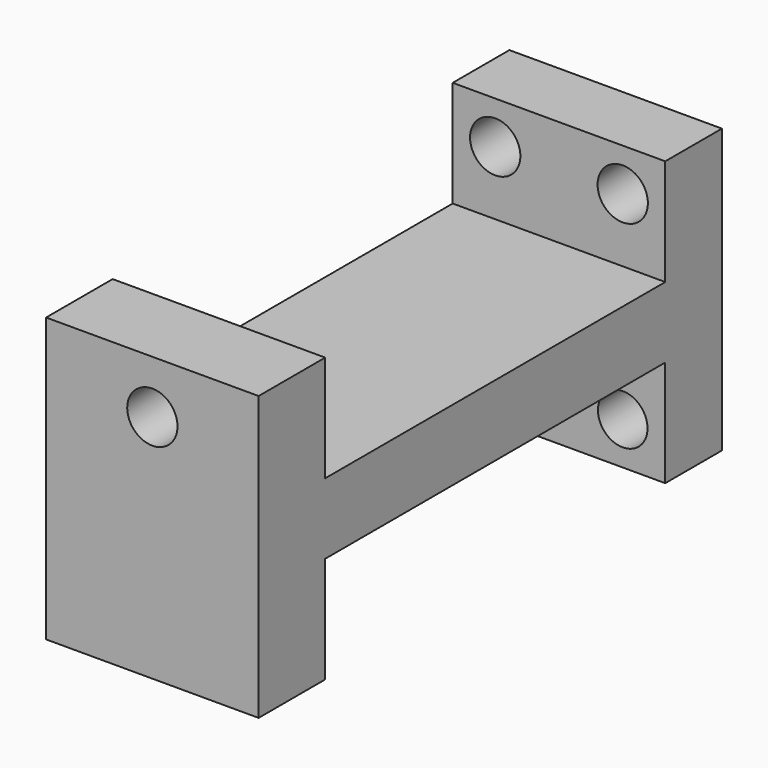
from build123d import *

# Parameters (mm, degrees)
F0_W     = 30
F0_H     = 5
F1_DEPTH = 15
F3_R     = 1.775
F4_DEPTH = 25
F2_R     = 1.775
F2_R_2   = 1.75
F5_DEPTH = 25


with BuildPart() as f1:
    # F0 (on Right) → F1 (new body)
    with BuildSketch(Plane.YZ):
        Polygon((-8.125334, 10), (-13.998746, 10), (-13.998746, -10), (-8.125334, -10), (-8.125334, -2.5), (-8.125334, 2.5), align=None)
        with Locations((6.874666, 0)):
            Rectangle(F0_W, F0_H)
        Polygon((21.874666, 10), (21.874666, 2.5), (21.874666, -2.5), (21.874666, -10), (26.874666, -10), (26.874666, 10), align=None)
    extrude(amount=F1_DEPTH)

    # F3 (on face) → F4 (cut)
    with BuildSketch(Plane(origin=(0, -8.125334, 0), x_dir=(-1, 0, 0), z_dir=(0, 1, 0))):
        with Locations((-7.5, 6.25)):
            Circle(F3_R)
    extrude(amount=-F4_DEPTH, mode=Mode.SUBTRACT)

    # F2 (on face) → F5 (cut)
    with BuildSketch(Plane(origin=(0, 26.874666, 0), x_dir=(-1, 0, 0), z_dir=(0, 1, 0))):
        with Locations((-12, 7)):
            Circle(F2_R)
        with Locations((-3, 7)):
            Circle(F2_R)
        with Locations((-3, -7)):
            Circle(F2_R)
        with Locations((-12, -7)):
            Circle(F2_R_2)
    extrude(amount=-F5_DEPTH, mode=Mode.SUBTRACT)


solid = f1.part
